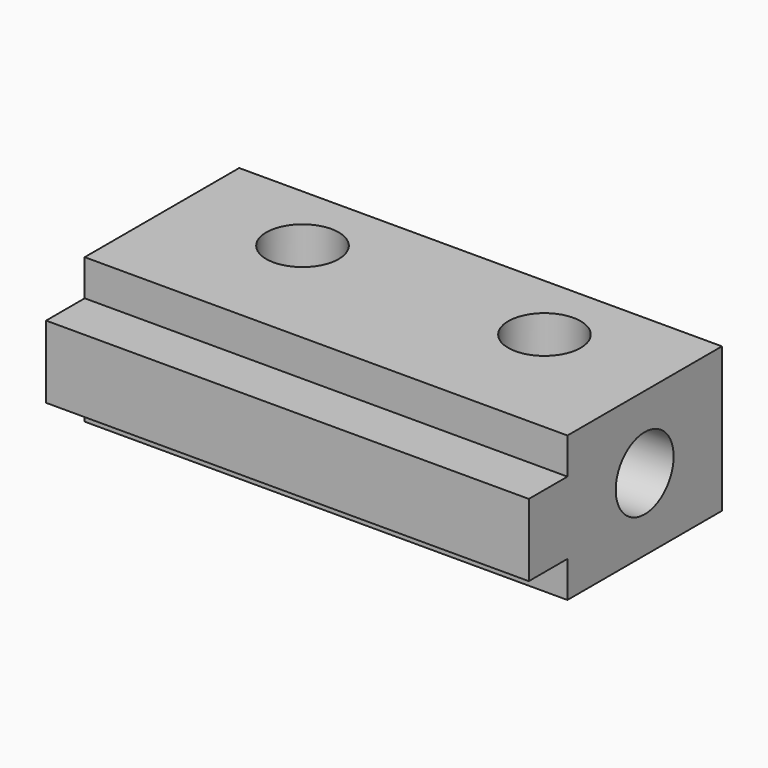
from build123d import *

# Parameters (mm, degrees)
F0_W      = 127
F0_H      = 63.5
F1_DEPTH  = 38.1
F2_W      = 12.7
F2_H      = 9.525
F3_DEPTH  = 127
F4_R      = 9.525
F5_DEPTH  = 25.4
F5_FACE_R = 9.525
F6_DEPTH  = 63.78913
F7_R      = 9.525
F8_DEPTH  = 127.28539


with BuildPart() as f1:
    # F0 (on Top) → F1 (new body)
    with BuildSketch(Plane.XY):
        with Locations((63.5, -31.75)):
            Rectangle(F0_W, F0_H)
    extrude(amount=F1_DEPTH)

    # F2 (on face) → F3 (cut)
    with BuildSketch(Plane.YZ.offset(127)):
        with Locations((-57.15, 33.3375)):
            Rectangle(F2_W, F2_H)
        with Locations((-57.15, 4.7625)):
            Rectangle(F2_W, F2_H)
    extrude(amount=-F3_DEPTH, mode=Mode.SUBTRACT)

    # F4 (on face) → F5 (join)
    with BuildSketch(Plane.XY.offset(38.1)):
        with Locations((31.75, -18.866556)):
            Circle(F4_R)
        with Locations((95.25, -18.669)):
            Circle(F4_R)
    extrude(amount=F5_DEPTH)

    # F5_face (on face) → F6 (cut)
    with BuildSketch(Plane(origin=(31.75, -18.866556, 63.5), x_dir=(1, 0, 0), z_dir=(0, 0, 1))):
        Circle(F5_FACE_R)
        with Locations((63.5, 0.197556)):
            Circle(F5_FACE_R)
    extrude(amount=-F6_DEPTH, mode=Mode.SUBTRACT)

    # F7 (on face) → F8 (cut)
    with BuildSketch(Plane.YZ.offset(127)):
        with Locations((-25.4, 19.05)):
            Circle(F7_R)
    extrude(amount=-F8_DEPTH, mode=Mode.SUBTRACT)


solid = f1.part
